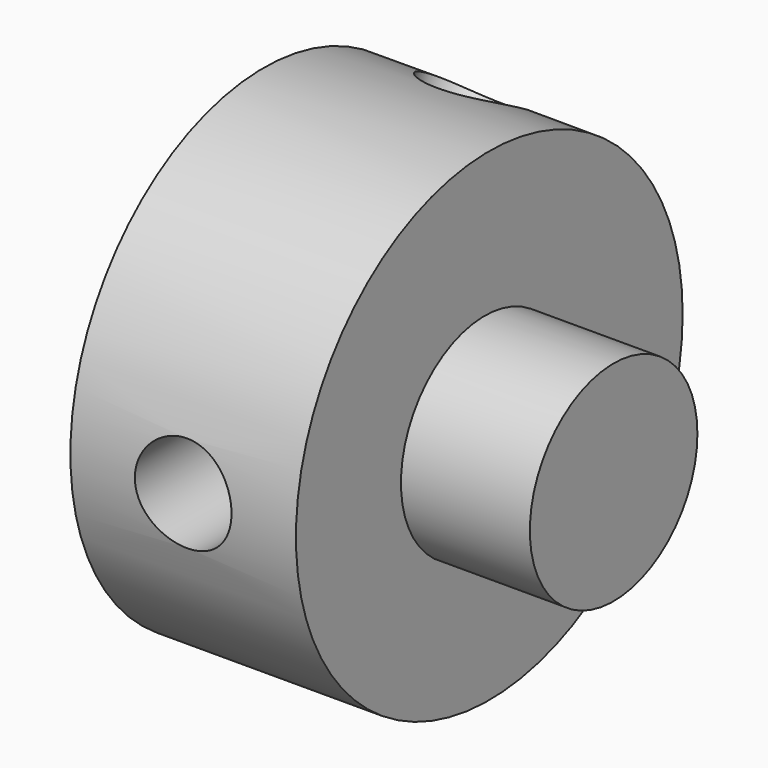
from build123d import *

# Parameters (mm, degrees)
F0_R     = 15.001136
F0_R_2   = 4
F1_DEPTH = 14
F3_R     = 3
F4_DEPTH = 25
F5_COUNT = 3
F7_R     = 6.5
F8_DEPTH = 8


with BuildPart() as f1:
    # F0 (on Right) → F1 (new body)
    with BuildSketch(Plane.YZ):
        with Locations((-77.428193, 78.135299)):
            Circle(F0_R)
        with Locations((-77.781746, 77.781746)):
            Circle(F0_R_2, mode=Mode.SUBTRACT)
    extrude(amount=F1_DEPTH)


with BuildPart() as f4:
    # F3 (on face) → F4 (new body)
    with BuildSketch(Plane.XZ.offset(77.428193)):
        with Locations((7, 78.135299)):
            Circle(F3_R)
    extrude(amount=F4_DEPTH)


with BuildPart() as f5_1:
    # F5: instance of F4
    add(f4.part.rotate(Axis((0, -77.428193, 78.135299), (1, 0, 0)), 1 * 360 / F5_COUNT))


with BuildPart() as f5_2:
    # F5: instance of F4
    add(f4.part.rotate(Axis((0, -77.428193, 78.135299), (1, 0, 0)), 2 * 360 / F5_COUNT))


with BuildPart() as f1_1:
    add(f1.part)

    # F6: cut F4, F5_1, F5_2
    add(f4.part, mode=Mode.SUBTRACT)
    add(f5_1.part, mode=Mode.SUBTRACT)
    add(f5_2.part, mode=Mode.SUBTRACT)

    # F7 (on face) → F8 (join)
    with BuildSketch(Plane.YZ.offset(14)):
        with Locations((-77.781746, 77.781746)):
            Circle(F7_R)
    extrude(amount=F8_DEPTH)


solid = f1_1.part
